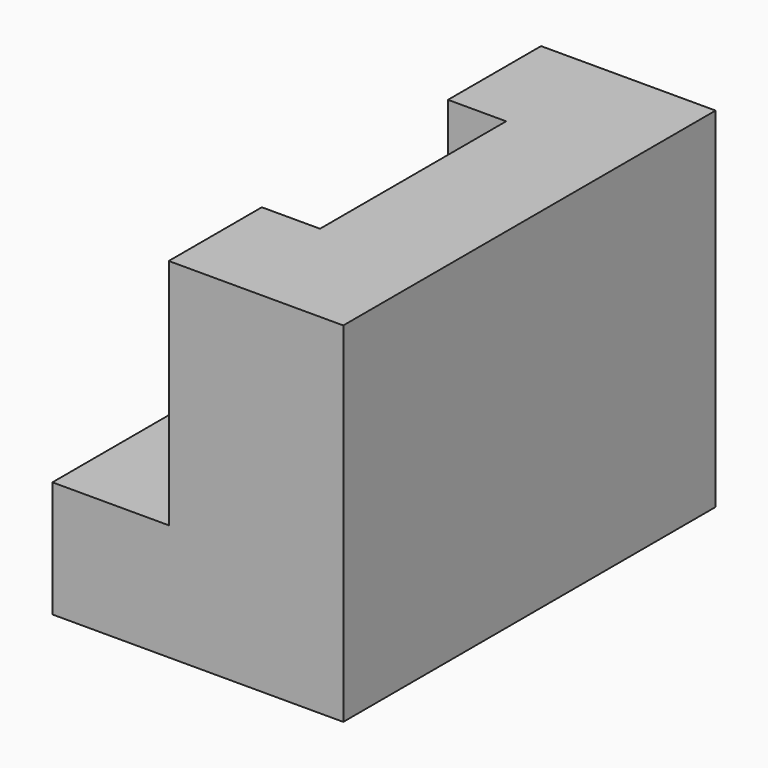
from build123d import *

# Parameters (mm, degrees)
F1_DEPTH = 101.6
F2_W     = 50.8
F2_H     = 38.1
F3_DEPTH = 12.7


with BuildPart() as f1:
    # F0 (on Front) → F1 (new body)
    with BuildSketch(Plane.XZ):
        Polygon((-68.526425, -17.723862), (-68.526425, -43.123862), (-5.026425, -43.123862), (-5.026425, 33.076138), (-43.126425, 33.076138), (-43.126425, -17.723862), align=None)
    extrude(amount=F1_DEPTH)

    # F2 (on face) → F3 (cut)
    with BuildSketch(Plane(origin=(-43.126425, 0, 0), x_dir=(0, -1, 0), z_dir=(-1, 0, 0))):
        with Locations((50.8, 14.026138)):
            Rectangle(F2_W, F2_H)
    extrude(amount=-F3_DEPTH, mode=Mode.SUBTRACT)


solid = f1.part
